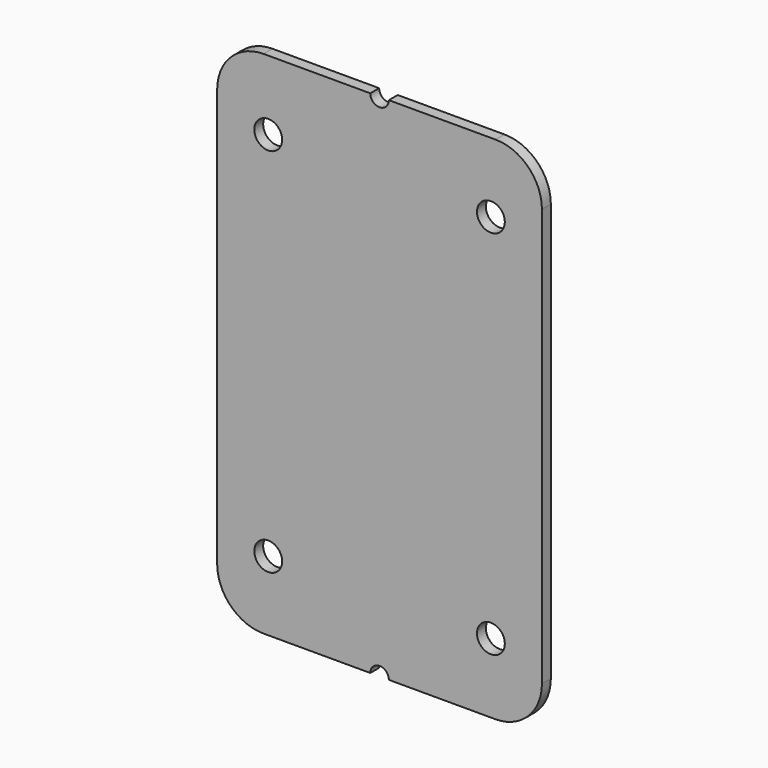
from build123d import *

# Parameters (mm, degrees)
F0_R     = 1.905
F1_DEPTH = 1.524


with BuildPart() as f1:
    # F0 (on Front) → F1 (new body)
    with BuildSketch(Plane.XZ):
        with BuildLine():
            ThreePointArc((0, 6.35), (1.859872, 1.859872), (6.35, 0))
            Line((6.35, 0), (20.955, 0))
            ThreePointArc((20.955, 0), (22.225, 1.27), (23.495, 0))
            Line((23.495, 0), (38.1, 0))
            ThreePointArc((38.1, 0), (42.590128, 1.859872), (44.45, 6.35))
            Line((44.45, 6.35), (44.45, 63.5))
            ThreePointArc((44.45, 63.5), (42.590128, 67.990128), (38.1, 69.85))
            Line((38.1, 69.85), (23.495, 69.85))
            ThreePointArc((23.495, 69.85), (22.225, 68.58), (20.955, 69.85))
            Line((20.955, 69.85), (6.35, 69.85))
            ThreePointArc((6.35, 69.85), (1.859872, 67.990128), (0, 63.5))
            Line((0, 63.5), (0, 6.35))
        make_face()
        with Locations((6.985, 9.525)):
            Circle(F0_R, mode=Mode.SUBTRACT)
        with Locations((37.465, 9.525)):
            Circle(F0_R, mode=Mode.SUBTRACT)
        with Locations((6.985, 60.325)):
            Circle(F0_R, mode=Mode.SUBTRACT)
        with Locations((37.465, 60.325)):
            Circle(F0_R, mode=Mode.SUBTRACT)
    extrude(amount=F1_DEPTH)


solid = f1.part
